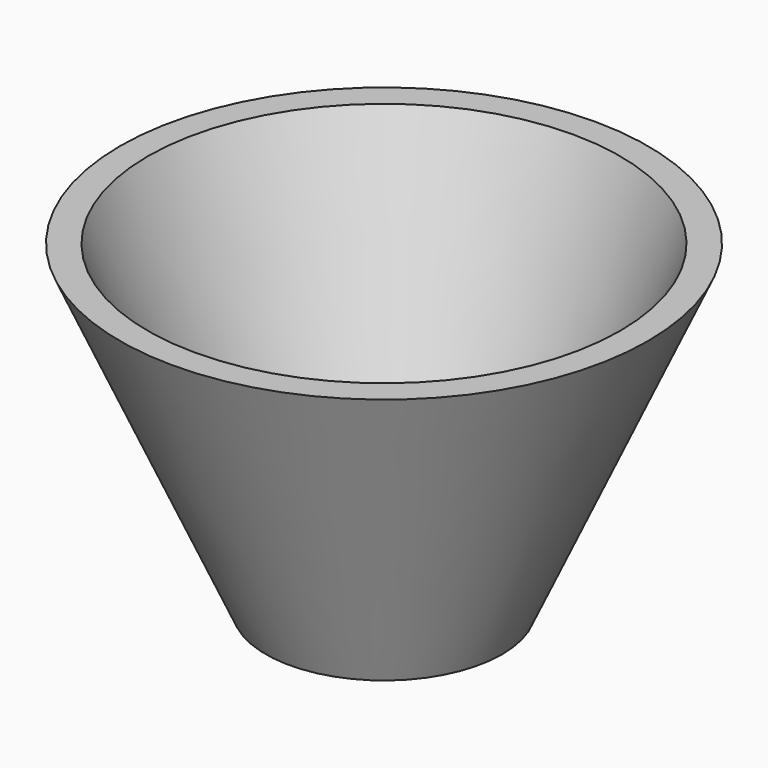
from build123d import *

# Parameters (mm, degrees)
F2_R      = 24.7047404202
F1_FACE_R = 25.4
F3_DEPTH  = 50.8


with BuildPart() as f1:
    # F0 (on Front) → F1 (revolve)
    with BuildSketch(Plane.XZ):
        Polygon((-39.9544239044, -41.0670787096), (-39.9544239044, -47.136105597), (-14.5544239044, -47.136105597), (16.7770980106, 22.324500033), (10.82309708, 22.324500033), (-14.5544239044, -41.0670787096), align=None)
    revolve(axis=Axis((-39.9544239044, 0, -44.1015921533), (0, 0, -1)))

    # F2 (on Top) + F1_face (on face) → F3 (cut)
    with BuildSketch(Plane.XY):
        with Locations((-40.6892560422, 0)):
            Circle(F2_R)
    with BuildSketch(Plane(origin=(-39.9544239044, 0, -47.136105597), x_dir=(1, 0, 0), z_dir=(0, 0, -1))):
        Circle(F1_FACE_R)
    extrude(amount=F3_DEPTH, dir=(0, 0, 1), mode=Mode.SUBTRACT)


solid = f1.part
